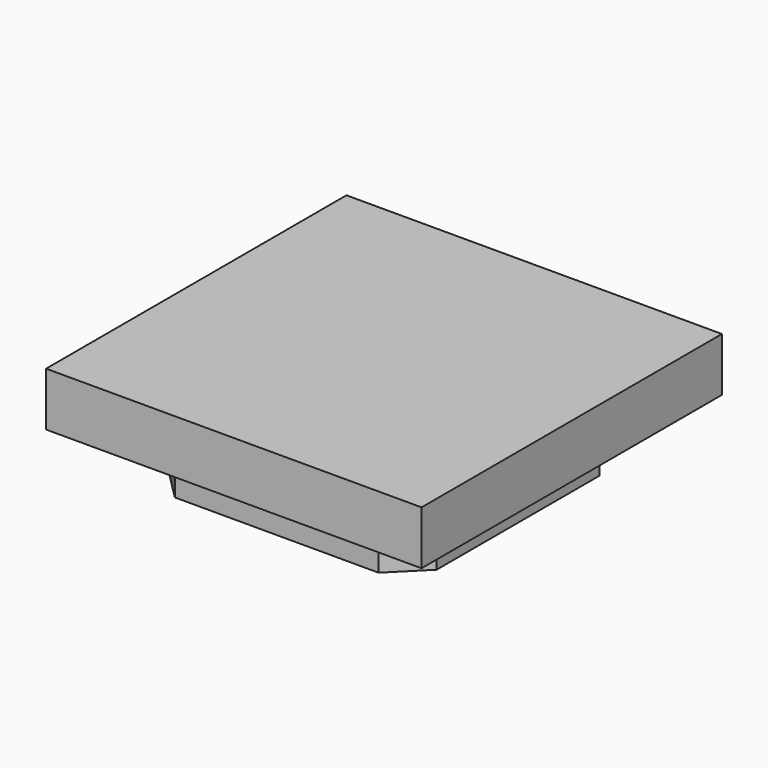
from build123d import *

# Parameters (mm, degrees)
F0_W     = 350
F0_H     = 350
F1_DEPTH = 50
F3_DEPTH = 50


with BuildPart() as f1:
    # F0 (on Top) → F1 (new body)
    with BuildSketch(Plane.XY):
        Rectangle(F0_W, F0_H)
    extrude(amount=F1_DEPTH)

    # F2 (on Top) → F3 (join)
    with BuildSketch(Plane.XY):
        Polygon((-95, -125), (95, -125), (125, -95), (125, 95), (95, 125), (-95, 125), (-125, 95), (-125, -95), align=None)
    extrude(amount=-F3_DEPTH)


solid = f1.part
